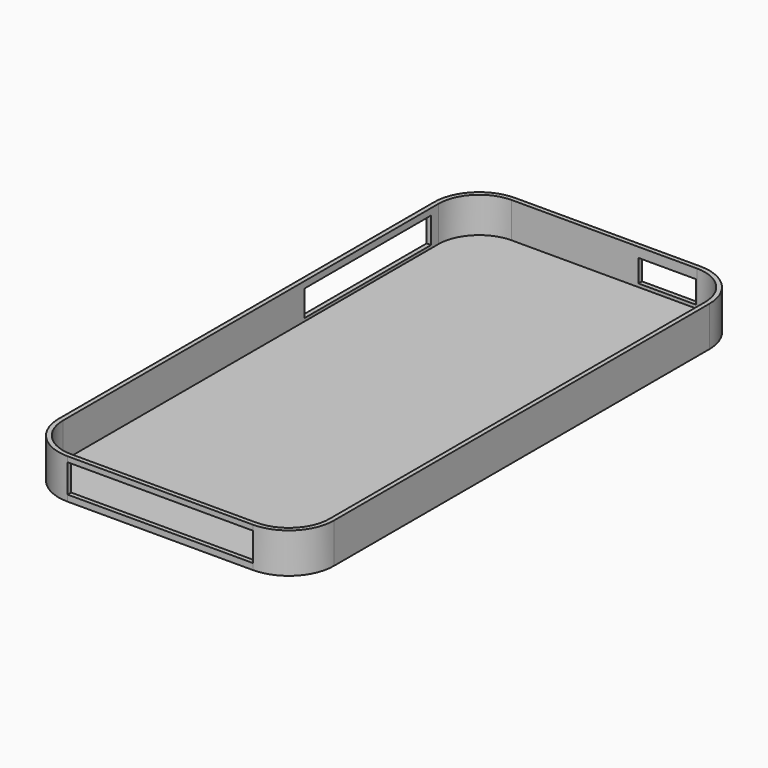
from build123d import *

# Parameters (mm, degrees)
F1_DEPTH = 9
F2_T     = -1
F3_W     = 13
F3_H     = 5.063144
F4_DEPTH = 8.9
F5_W     = 35.64187
F5_H     = 5.863439
F6_DEPTH = 9.9
F7_W     = 41.68
F7_H     = 6.419253
F8_DEPTH = 25


with BuildPart() as f1:
    # F0 (on Top) → F1 (new body)
    with BuildSketch(Plane.XY):
        with BuildLine():
            ThreePointArc((31, 52.84), (28.024205, 60.024205), (20.84, 63))
            Line((20.84, 63), (-20.84, 63))
            ThreePointArc((-20.84, 63), (-28.024205, 60.024205), (-31, 52.84))
            Line((-31, 52.84), (-31, -52.84))
            ThreePointArc((-31, -52.84), (-28.024205, -60.024205), (-20.84, -63))
            Line((-20.84, -63), (20.84, -63))
            ThreePointArc((20.84, -63), (28.024205, -60.024205), (31, -52.84))
            Line((31, -52.84), (31, 52.84))
        make_face()
    extrude(amount=F1_DEPTH)

    # F2
    f2_openings = [f1.faces().sort_by_distance(p)[0] for p in [
        (0, 0, 9),
    ]]
    offset(amount=F2_T, openings=f2_openings)

    # F3 (on face) → F4 (cut)
    with BuildSketch(Plane(origin=(0, 63, 0), x_dir=(-1, 0, 0), z_dir=(0, 1, 0))):
        with Locations((-14.212146, 4.273678)):
            Rectangle(F3_W, F3_H)
    extrude(amount=-F4_DEPTH, mode=Mode.SUBTRACT)

    # F5 (on face) → F6 (cut)
    with BuildSketch(Plane(origin=(-31, 0, 0), x_dir=(0, -1, 0), z_dir=(-1, 0, 0))):
        with Locations((-32.919836, 4.599208)):
            Rectangle(F5_W, F5_H)
    extrude(amount=-F6_DEPTH, mode=Mode.SUBTRACT)

    # F7 (on face) → F8 (cut)
    with BuildSketch(Plane.XZ.offset(63)):
        with Locations((0, 4.608059)):
            Rectangle(F7_W, F7_H)
    extrude(amount=-F8_DEPTH, mode=Mode.SUBTRACT)


solid = f1.part
